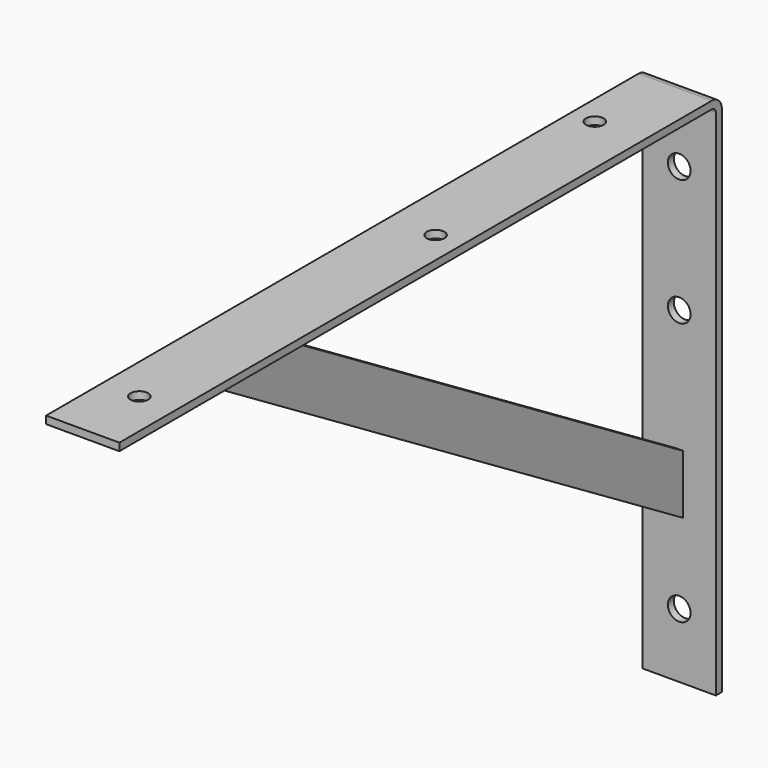
from build123d import *

# Parameters (mm, degrees)
F1_DEPTH = 14.5
F3_DEPTH = 1.5
F4_R     = 4.5
F5_DEPTH = 3
F6_R     = 3.5
F7_DEPTH = 3


with BuildPart() as f1:
    # F0 (on Right) → F1 (new body, symmetric)
    with BuildSketch(Plane.YZ):
        with BuildLine():
            Line((-5, 0), (-298, 0))
            Line((-298, 0), (-298, -3))
            Line((-298, -3), (-5, -3))
            ThreePointArc((-5, -3), (-3.585786, -3.585786), (-3, -5))
            Line((-3, -5), (-3, -208))
            Line((-3, -208), (0, -208))
            Line((0, -208), (0, -5))
            ThreePointArc((0, -5), (-1.464466, -1.464466), (-5, 0))
        make_face()
    extrude(amount=F1_DEPTH, both=True)

    # F2 (on Right) → F3 (join, symmetric)
    with BuildSketch(Plane.YZ):
        Polygon((-3, -150.343812), (-3, -127), (-209, -3), (-247.780849, -3), align=None)
    extrude(amount=F3_DEPTH, both=True)

    # F4 (on face) → F5 (cut)
    with BuildSketch(Plane(origin=(0, 0, 0), x_dir=(-1, 0, 0), z_dir=(0, 1, 0))):
        with Locations((0, -28.5)):
            Circle(F4_R)
        with Locations((0, -78.5)):
            Circle(F4_R)
        with Locations((0, -182.5)):
            Circle(F4_R)
    extrude(amount=-F5_DEPTH, mode=Mode.SUBTRACT)

    # F6 (on face) → F7 (cut)
    with BuildSketch(Plane.XY):
        with Locations((-5, -38.5)):
            Circle(F6_R)
        with Locations((4, -128.5)):
            Circle(F6_R)
        with Locations((0, -270)):
            Circle(F6_R)
    extrude(amount=-F7_DEPTH, mode=Mode.SUBTRACT)


solid = f1.part
